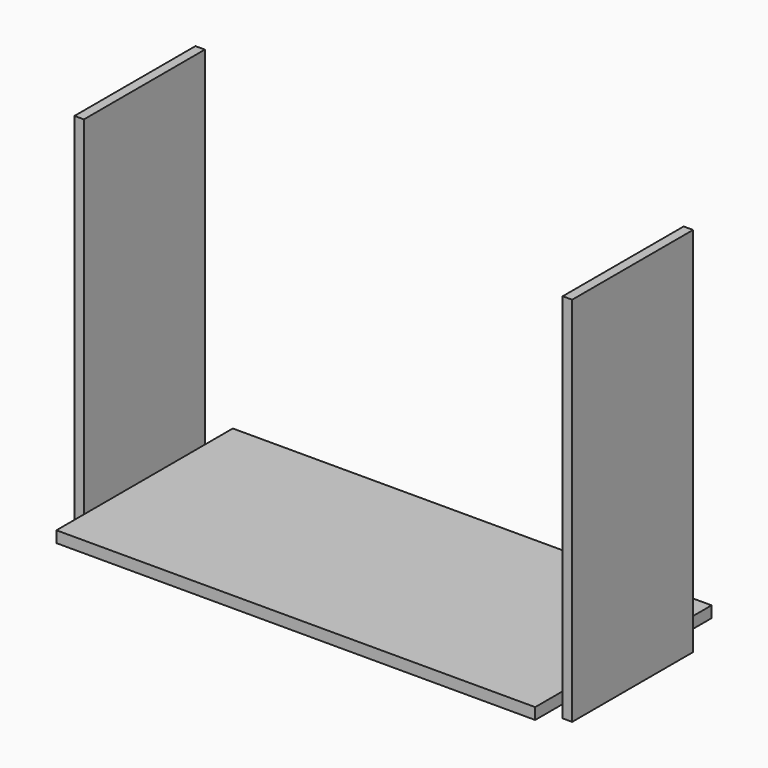
from build123d import *

# Parameters (mm, degrees)
F0_W     = 760
F0_H     = 350
F1_DEPTH = 18
F2_W     = 240
F2_H     = 19.9916773911
F2_H_2   = 18
F2_H_3   = 552.0083226089
F3_DEPTH = 15
F4_W     = 240
F4_H     = 552.0083226089
F4_H_2   = 18
F4_H_3   = 19.9916773911
F5_DEPTH = 15


with BuildPart() as f1:
    # F0 (on Top) → F1 (new body)
    with BuildSketch(Plane.XY):
        Rectangle(F0_W, F0_H)
    extrude(amount=F1_DEPTH)

    # F4 (on face) → F5 (join)
    with BuildSketch(Plane.YZ.offset(380)):
        with Locations((-0.4170164466, 294.0041613045)):
            Rectangle(F4_W, F4_H)
        with Locations((-0.4170164466, 9)):
            Rectangle(F4_W, F4_H_2)
        with Locations((-0.4170164466, -9.9958386955)):
            Rectangle(F4_W, F4_H_3)
    extrude(amount=F5_DEPTH)


with BuildPart() as f3:
    # F2 (on face) → F3 (new body)
    with BuildSketch(Plane(origin=(-380, 0, 0), x_dir=(0, -1, 0), z_dir=(-1, 0, 0))):
        with Locations((0.4170164466, -9.9958386955)):
            Rectangle(F2_W, F2_H)
        with Locations((0.4170164466, 9)):
            Rectangle(F2_W, F2_H_2)
        with Locations((0.4170164466, 294.0041613045)):
            Rectangle(F2_W, F2_H_3)
    extrude(amount=F3_DEPTH)


solid = Compound([f1.part, f3.part])
